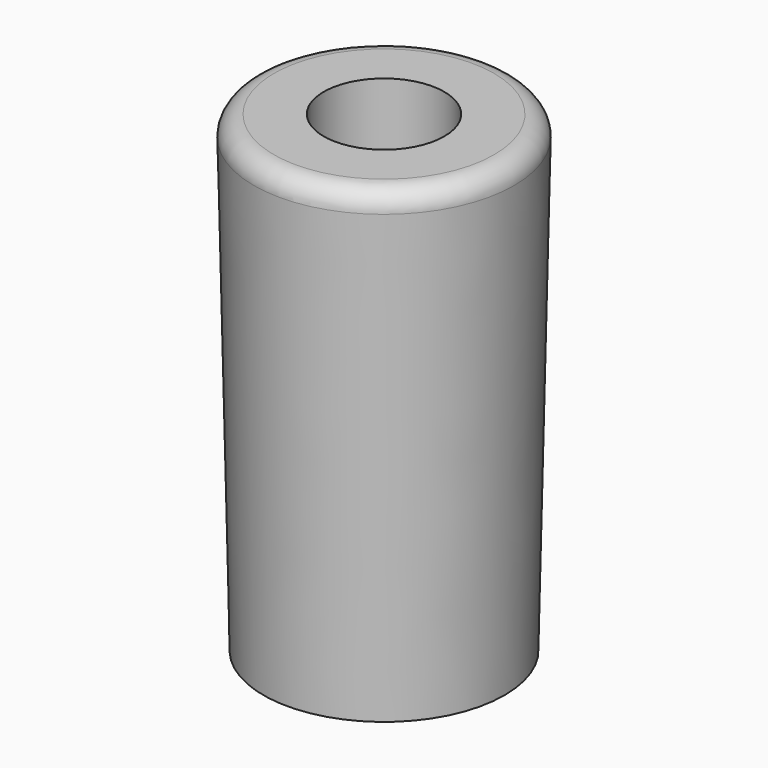
from build123d import *

# Parameters (mm, degrees)
F2_R     = 0.5
F3_R     = 1.5
F4_DEPTH = 10
F5_R     = 0.5
F6_DEPTH = 2


with BuildPart() as f1:
    # F0 (on Front) → F1 (revolve)
    with BuildSketch(Plane.XZ):
        Polygon((0, 6.186947), (0, -5.563053), (3, -5.563053), (3.25, 6.186947), align=None)
    revolve(axis=Axis((0, 0, 0.311947), (0, 0, 1)))

    # F2
    f2_edges = [f1.edges().sort_by_distance(p)[0] for p in [
        (-3.25, 0, 6.186947),
    ]]
    fillet(f2_edges, radius=F2_R)

    # F3 (on face) → F4 (cut)
    with BuildSketch(Plane.XY.offset(6.186947)):
        Circle(F3_R)
    extrude(amount=-F4_DEPTH, mode=Mode.SUBTRACT)

    # F5 (on face) → F6 (cut)
    with BuildSketch(Plane(origin=(0, 0, -5.563053), x_dir=(1, 0, 0), z_dir=(0, 0, -1))):
        Circle(F5_R)
    extrude(amount=-F6_DEPTH, mode=Mode.SUBTRACT)


solid = f1.part
